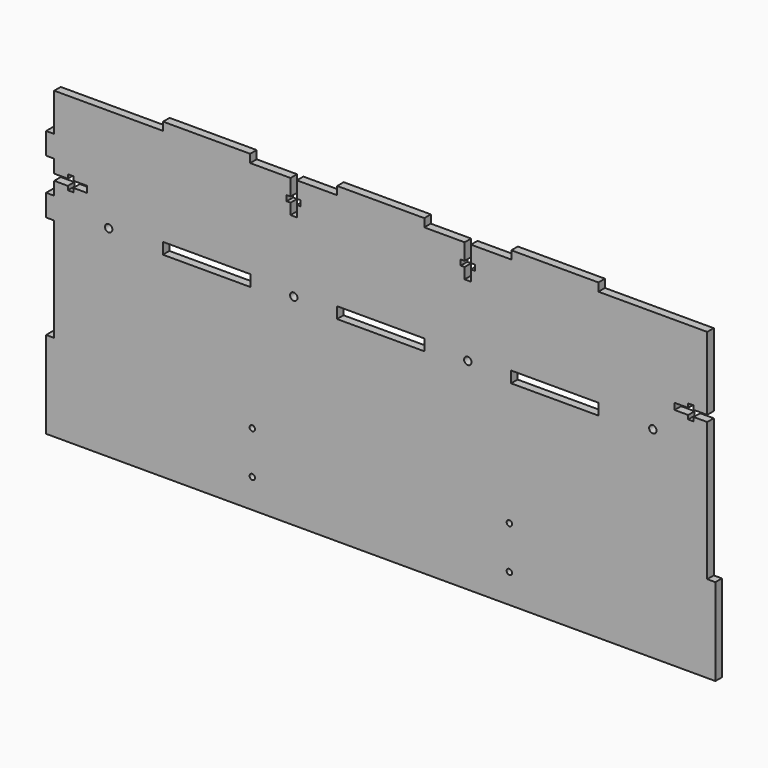
from build123d import *

# Parameters (mm, degrees)
F0_R     = 1.5875
F0_W     = 51.054
F0_H     = 6.604
F0_W_2   = 4.7625
F0_H_2   = 50.8
F0_W_3   = 50.8
F0_H_3   = 4.7625
F0_H_4   = 12.7
F1_DEPTH = 4.7625
F2_D     = 4.318
F2_DEPTH = 11.9126
F2_TIP   = 1.2972580765


with BuildPart() as f1:
    # F0 (on Front) → F1 (new body)
    with BuildSketch(Plane.XZ):
        Polygon((-127, 88.9), (-190.5, 88.9), (-190.5, 66.675), (-190.5, 53.975), (-190.5, 46.2915), (-182.5625, 46.2915), (-182.5625, 48.5775), (-179.3875, 48.5775), (-179.3875, 46.2915), (-171.45, 46.2915), (-171.45, 42.6085), (-179.3875, 42.6085), (-179.3875, 40.3225), (-182.5625, 40.3225), (-182.5625, 42.6085), (-190.5, 42.6085), (-190.5, 34.925), (-190.5, 22.225), (-190.5, -38.1), (-190.5, -88.9), (190.5, -88.9), (190.5, -38.1), (190.5, 22.225), (190.5, 34.925), (190.5, 42.6085), (182.5625, 42.6085), (182.5625, 40.3225), (179.3875, 40.3225), (179.3875, 42.6085), (171.45, 42.6085), (171.45, 46.2915), (179.3875, 46.2915), (179.3875, 48.5775), (182.5625, 48.5775), (182.5625, 46.2915), (190.5, 46.2915), (190.5, 53.975), (190.5, 66.675), (190.5, 88.9), (127, 88.9), (76.2, 88.9), (52.6415, 88.9), (52.6415, 79.375), (54.9275, 79.375), (54.9275, 76.2), (52.6415, 76.2), (52.6415, 69.85), (48.9585, 69.85), (48.9585, 76.2), (46.6725, 76.2), (46.6725, 79.375), (48.9585, 79.375), (48.9585, 88.9), (25.4, 88.9), (-25.4, 88.9), (-48.9585, 88.9), (-48.9585, 79.375), (-46.6725, 79.375), (-46.6725, 76.2), (-48.9585, 76.2), (-48.9585, 69.85), (-52.6415, 69.85), (-52.6415, 76.2), (-54.9275, 76.2), (-54.9275, 79.375), (-52.6415, 79.375), (-52.6415, 88.9), (-76.2, 88.9), align=None)
        with Locations((-74.9310097456, -71.9249998569)):
            Circle(F0_R, mode=Mode.SUBTRACT)
        with Locations((-74.9310097456, -46.9249998569)):
            Circle(F0_R, mode=Mode.SUBTRACT)
        with Locations((75.0689902544, -71.9249998569)):
            Circle(F0_R, mode=Mode.SUBTRACT)
        with Locations((75.0689902544, -46.9249998569)):
            Circle(F0_R, mode=Mode.SUBTRACT)
        with Locations((-101.6, 28.575)):
            Rectangle(F0_W, F0_H, mode=Mode.SUBTRACT)
        with Locations((0, 28.575)):
            Rectangle(F0_W, F0_H, mode=Mode.SUBTRACT)
        with Locations((101.6, 28.575)):
            Rectangle(F0_W, F0_H, mode=Mode.SUBTRACT)
        with Locations((192.88125, -63.5)):
            Rectangle(F0_W_2, F0_H_2)
        with Locations((-192.88125, -63.5)):
            Rectangle(F0_W_2, F0_H_2)
        with Locations((-101.6, 91.28125)):
            Rectangle(F0_W_3, F0_H_3)
        with Locations((0, 91.28125)):
            Rectangle(F0_W_3, F0_H_3)
        with Locations((101.6, 91.28125)):
            Rectangle(F0_W_3, F0_H_3)
        with Locations((-192.88125, 60.325)):
            Rectangle(F0_W_2, F0_H_4)
        with Locations((-192.88125, 28.575)):
            Rectangle(F0_W_2, F0_H_4)
    extrude(amount=F1_DEPTH)

    # F2
    with Locations(Plane(origin=(0, 0, 0), x_dir=(1, 0, 0), z_dir=(0, 1, 0))):
        with Locations((-158.75, -28.575), (-50.7365, -28.575), (50.8, -28.575), (158.75, -28.575)):
            Hole(F2_D / 2, depth=F2_DEPTH)
            with Locations((0, 0, -(F2_DEPTH + F2_TIP / 2))):  # 118° drill point
                Cone(0, F2_D / 2, F2_TIP, mode=Mode.SUBTRACT)


solid = f1.part
